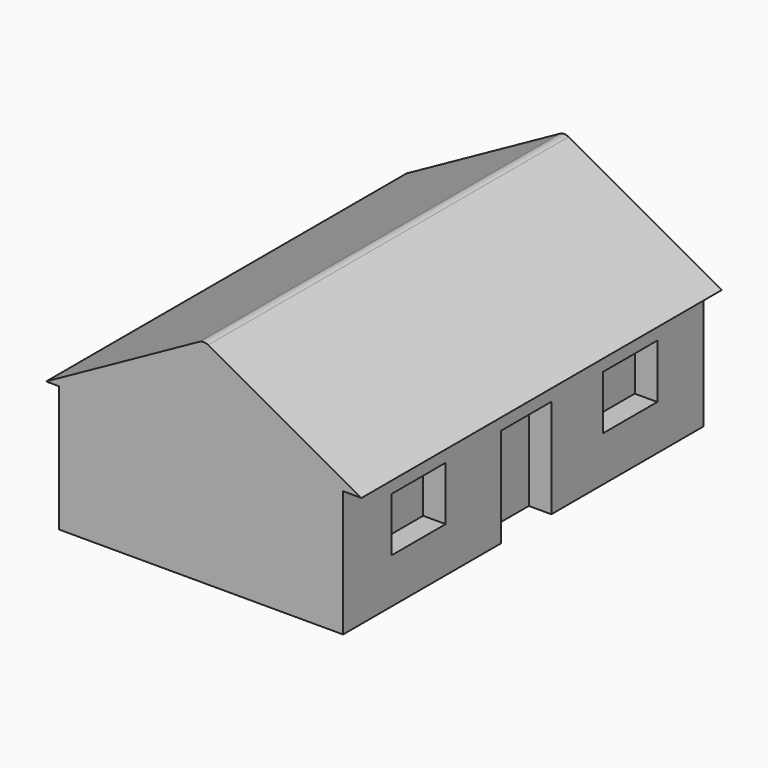
from build123d import *

# Parameters (mm, degrees)
F0_W     = 160.02
F0_H     = 71.12
F1_DEPTH = 254
F2_W     = 38.1
F2_H     = 30.48
F2_W_2   = 38.099997
F2_W_3   = 35.56
F2_H_2   = 55.88
F3_DEPTH = 12.7
F5_W     = 38.1
F5_H     = 30.48
F6_DEPTH = 12.7
F7_R     = 5.08


with BuildPart() as f1:
    # F0 (on Front) → F1 (new body)
    with BuildSketch(Plane.XZ):
        with Locations((-1.466153, -28.354255)):
            Rectangle(F0_W, F0_H)
        Polygon((-88.9, 7.205745), (-81.476153, 7.205745), (78.543847, 7.205745), (88.9, 7.205745), (0, 56.392634), align=None)
    extrude(amount=F1_DEPTH)

    # F2 (on face) → F3 (cut)
    with BuildSketch(Plane.YZ.offset(78.543847)):
        with Locations((-200.764716, -23.274255)):
            Rectangle(F2_W, F2_H)
        with Locations((-51.652463, -23.274255)):
            Rectangle(F2_W_2, F2_H)
        with Locations((-125.025785, -35.974255)):
            Rectangle(F2_W_3, F2_H_2)
    extrude(amount=-F3_DEPTH, mode=Mode.SUBTRACT)

    # F5 (on face) → F6 (cut)
    with BuildSketch(Plane(origin=(-81.476153, 0, 0), x_dir=(0, -1, 0), z_dir=(-1, 0, 0))):
        with Locations((35.715754, -23.274255)):
            Rectangle(F5_W, F5_H)
        with Locations((129.347243, -23.274255)):
            Rectangle(F5_W, F5_H)
        with Locations((217.621587, -23.274255)):
            Rectangle(F5_W, F5_H)
    extrude(amount=-F6_DEPTH, mode=Mode.SUBTRACT)

    # F7
    f7_edges = [f1.edges().sort_by_distance(p)[0] for p in [
        (0, -127, 56.392634),
    ]]
    fillet(f7_edges, radius=F7_R)


solid = f1.part
